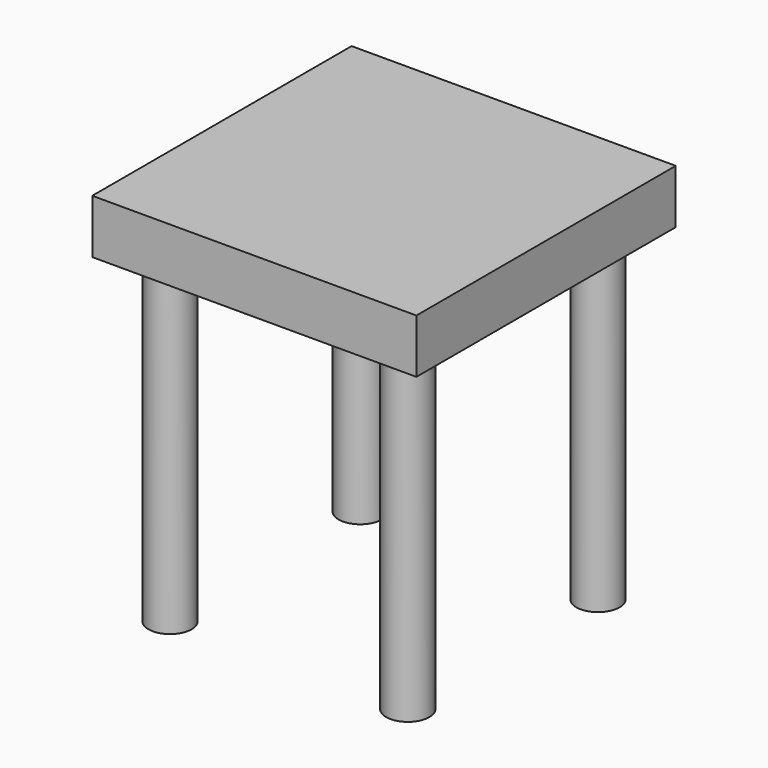
from build123d import *

# Parameters (mm, degrees)
F1_DEPTH = 150
F2_R     = 20
F3_DEPTH = 300


with BuildPart() as f1:
    # F0 (on Front) → F1 (new body, symmetric)
    with BuildSketch(Plane.XZ):
        Polygon((150, 400), (-150, 400), (-150, 350), (-130, 350), (150, 350), align=None)
    extrude(amount=F1_DEPTH, both=True)

    # F2 (on face) → F3 (join)
    with BuildSketch(Plane(origin=(0, 0, 350), x_dir=(1, 0, 0), z_dir=(0, 0, -1))):
        with Locations((110, 110)):
            Circle(F2_R)
        with Locations((-110, 110)):
            Circle(F2_R)
        with Locations((-110, -110)):
            Circle(F2_R)
        with Locations((110, -110)):
            Circle(F2_R)
    extrude(amount=F3_DEPTH)


solid = f1.part
